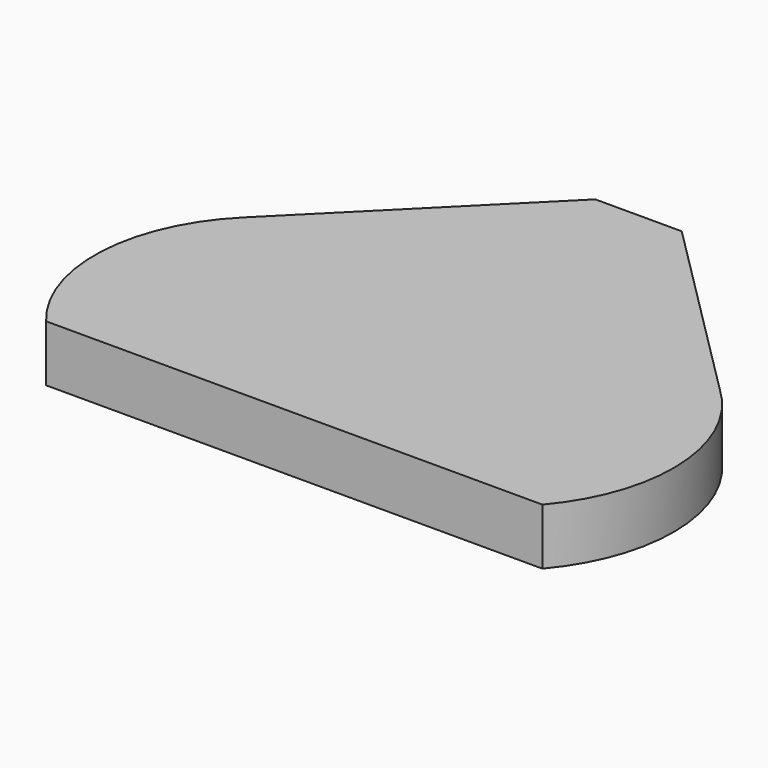
from build123d import *

# Parameters (mm, degrees)
EXTRUSION008_DEPTH = 15
RECTANGLE001_W     = 146.971653
RECTANGLE001_H     = 26.042151
EXTRUSION007_DEPTH = 15
CIRCLE002_R        = 46
EXTRUSION005_DEPTH = 15
CIRCLE003_R        = 46
EXTRUSION006_DEPTH = 15


with BuildPart() as extrusion008:
    # Wire001 → Extrusion008 (new body)
    with BuildSketch(Plane(origin=(-40.513268, 32.899851, 15), x_dir=(1, 0, 0), z_dir=(0, 0, 1))):
        Polygon((0, 0), (51.871842, 51.871844), (74.871842, 51.871844), (126.743685, 1e-06), align=None)
    extrude(amount=-EXTRUSION008_DEPTH)


with BuildPart() as extrusion007:
    # Rectangle001 → Extrusion007 (new body)
    with BuildSketch(Plane(origin=(-43.712536, -55.376318, 15), x_dir=(1, 0, 0), z_dir=(0, 0, 1))):
        with Locations((73.485827, 13.021076)):
            Rectangle(RECTANGLE001_W, RECTANGLE001_H)
    extrude(amount=-EXTRUSION007_DEPTH)


with BuildPart() as extrusion005:
    # Circle002 → Extrusion005 (new body)
    with BuildSketch(Plane(origin=(53.57846, 0.542169, 15), x_dir=(1, 0, 0), z_dir=(0, 0, 1))):
        Circle(CIRCLE002_R)
    extrude(amount=-EXTRUSION005_DEPTH)


with BuildPart() as fusion001002003:
    # Circle003 → Extrusion006 (new body)
    with BuildSketch(Plane(origin=(-8.183821, 0.175382, 15), x_dir=(1, 0, 0), z_dir=(0, 0, 1))):
        Circle(CIRCLE003_R)
    extrude(amount=-EXTRUSION006_DEPTH)

    # Fusion001002002: union Extrusion005
    add(extrusion005.part)

    # Cut: cut Extrusion007
    add(extrusion007.part, mode=Mode.SUBTRACT)

    # Fusion001002003: union Extrusion008
    add(extrusion008.part)


solid = fusion001002003.part
